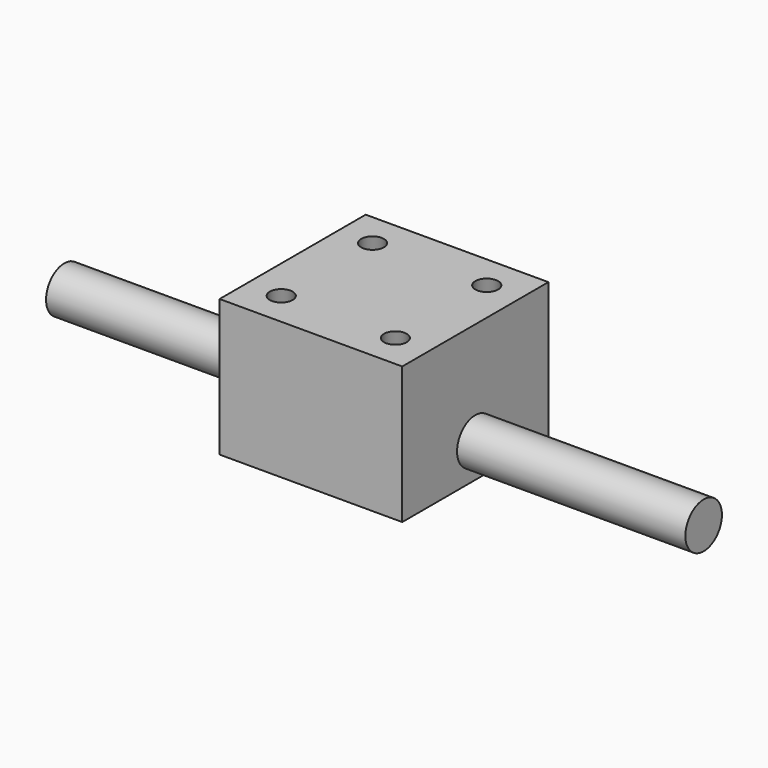
from build123d import *

# Parameters (mm, degrees)
F0_W     = 50.8
F0_H     = 50.8
F0_R     = 3.175
F1_DEPTH = 19.05
F3_R     = 6.35
F4_DEPTH = 88.9


with BuildPart() as f1:
    # F0 (on Top) → F1 (new body, symmetric)
    with BuildSketch(Plane.XY):
        Rectangle(F0_W, F0_H)
        with Locations((-15.875, -15.875)):
            Circle(F0_R, mode=Mode.SUBTRACT)
        with Locations((15.875, -15.875)):
            Circle(F0_R, mode=Mode.SUBTRACT)
        with Locations((-15.875, 15.875)):
            Circle(F0_R, mode=Mode.SUBTRACT)
        with Locations((15.875, 15.875)):
            Circle(F0_R, mode=Mode.SUBTRACT)
    extrude(amount=F1_DEPTH, both=True)


with BuildPart() as f2_1:
    # F2: instance of F1
    add(f1.part.mirror(Plane.YZ))


with BuildPart() as f4:
    # F3 (on Right) → F4 (new body, symmetric)
    with BuildSketch(Plane.YZ):
        with Locations((0, -9.525)):
            Circle(F3_R)
    extrude(amount=F4_DEPTH, both=True)


solid = Compound([f1.part, f2_1.part, f4.part])
